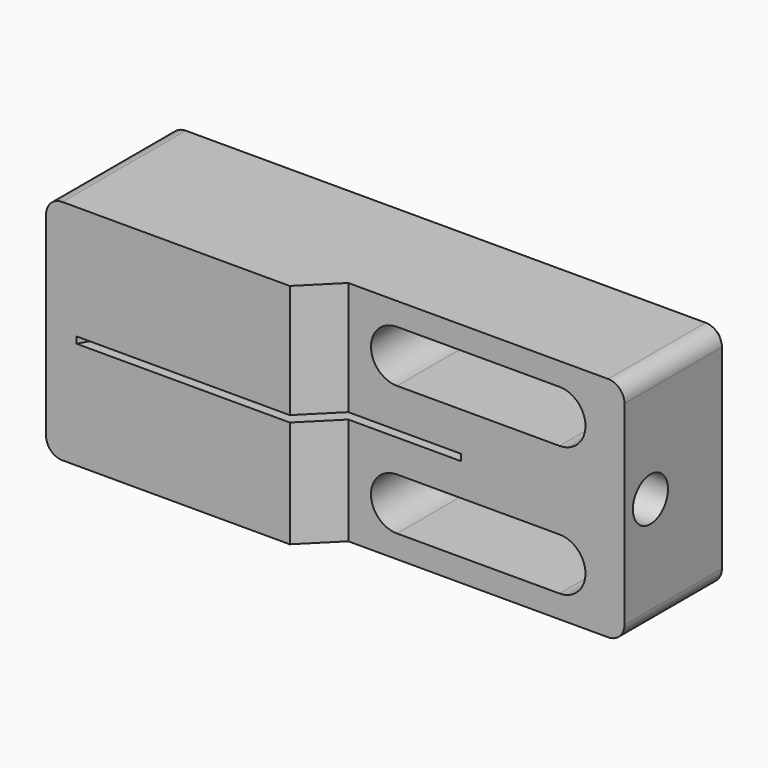
from build123d import *

# Parameters (mm, degrees)
SKETCH_W        = 34
SKETCH_H        = 10
PAD_DEPTH       = 7
POCKET_DEPTH    = 0.4
FILLET_R        = 1
POCKET001_DEPTH = 86.211236
CHAMFER_SIZE    = 0.5
SKETCH005_R     = 1.35
POCKET002_DEPTH = 7
POCKET003_DEPTH = 14.001


with BuildPart() as part:
    # Sketch (on XY_Plane of Origin) → Pad (new body, symmetric)
    with BuildSketch(Plane.XY):
        Rectangle(SKETCH_W, SKETCH_H)
    extrude(amount=PAD_DEPTH, both=True)

    # Sketch002 (on XY_Plane of Origin) → Pocket (cut)
    with BuildSketch(Plane.XY):
        Polygon((4.751306, -6.5), (11, 3.5), (-10.225191, 3.5), (-15.998694, -6.5), align=None)
    extrude(amount=-POCKET_DEPTH, mode=Mode.SUBTRACT)

    # Fillet
    fillet_edges = [part.edges().sort_by_distance(p)[0] for p in [
        (17, 0, 7),
        (17, 0, -7),
        (-17, 0, -7),
        (-17, 0, 7),
    ]]
    fillet(fillet_edges, radius=FILLET_R)

    # Sketch003 (on Face1 of Fillet) → Pocket001 (cut, through all)
    with BuildSketch(Plane.XZ.offset(5)):
        with BuildLine():
            ThreePointArc((3, 5.6), (1.4, 4), (3, 2.4))
            Line((3, 2.4), (13, 2.4))
            ThreePointArc((13, 2.4), (14.6, 4), (13, 5.6))
            Line((3, 5.6), (13, 5.6))
        make_face()
    pocket001 = extrude(amount=-POCKET001_DEPTH, mode=Mode.SUBTRACT)

    # Mirrored: Pocket001 across XY
    add(pocket001.mirror(Plane.XY), mode=Mode.SUBTRACT)

    # Chamfer
    chamfer_edges = [part.edges().sort_by_distance(p)[0] for p in [
        (0, 5, -7),
    ]]
    chamfer(chamfer_edges, length=CHAMFER_SIZE)

    # Sketch005 (on Face13 of Chamfer) → Pocket002 (cut)
    with BuildSketch(Plane.YZ.offset(17)):
        with Locations((-1, 0)):
            Circle(SKETCH005_R)
    extrude(amount=-POCKET002_DEPTH, mode=Mode.SUBTRACT)

    # Sketch006 (on Face7 of Pocket002) → Pocket003 (cut, through all)
    with BuildSketch(Plane(origin=(0, 0, -7), x_dir=(1, 0, 0), z_dir=(0, 0, -1))):
        Polygon((-4, 7), (0, 3), (22.51627, 3), (22.51627, 7), align=None)
    extrude(amount=-POCKET003_DEPTH, mode=Mode.SUBTRACT)


solid = part.part
